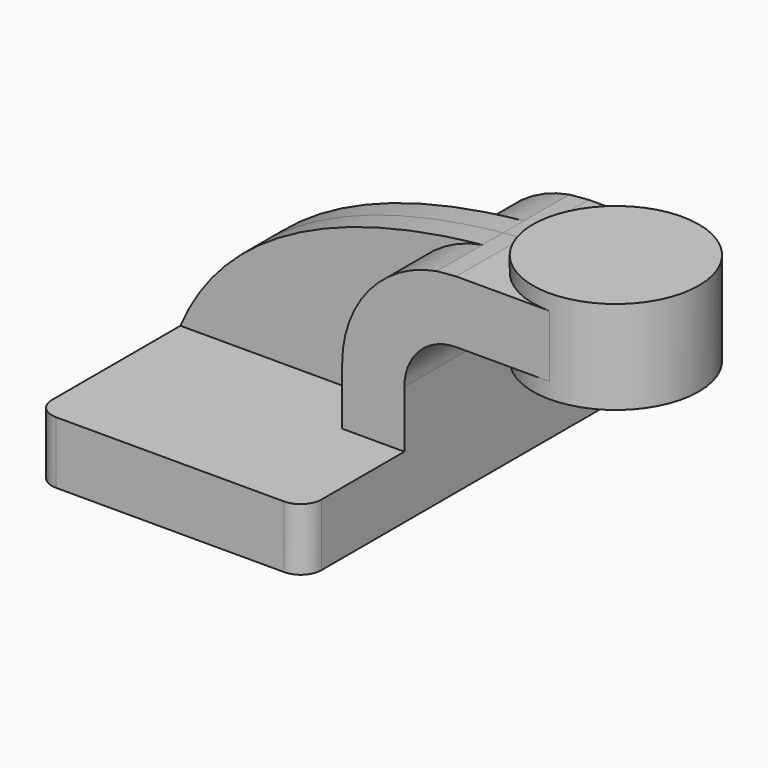
from build123d import *

# Parameters (mm, degrees)
F1_DEPTH = 63.5
F2_DEPTH = 25.4
F0_W     = 25.4
F0_H     = 19.05
F3_DEPTH = 25.4
F5_DEPTH = 7.9375
F6_R     = 6.35


with BuildPart() as f1:
    # F0 (on Front) → F1 (new body, symmetric)
    with BuildSketch(Plane.XZ):
        Polygon((22.225, 9.525), (-41.275, 9.525), (-41.275, -9.525), (41.275, -9.525), (41.275, 9.525), align=None)
    extrude(amount=F1_DEPTH, both=True)

    # F0 (on Front) → F2 (join, symmetric)
    with BuildSketch(Plane.XZ):
        with BuildLine():
            Line((22.225, 27.0002), (22.225, 9.525))
            Line((22.225, 9.525), (41.275, 9.525))
            Line((41.275, 9.525), (41.275, 27.0002))
            ThreePointArc((41.275, 27.0002), (45.9246798487, 38.2255201513), (57.15, 42.8752))
            Line((57.15, 42.8752), (60.325, 42.8752))
            Line((60.325, 42.8752), (60.325, 61.9252))
            Line((60.325, 61.9252), (57.15, 61.9252))
            add(Edge.make_bspline(
                [(51.1919194088, 61.4132338777), (53.1588989286, 61.6071240271), (55.1452560975, 61.7777078906), (57.15, 61.9252)],
                knots=[106.8067988555, 106.8067988555, 106.8067988555, 106.8067988555, 111.5045361635, 111.5045361635, 111.5045361635, 111.5045361635], degree=3))
            ThreePointArc((51.1919194088, 61.4132338777), (30.4307036989, 49.4909721116), (22.225, 27.0002))
        make_face()
    extrude(amount=F2_DEPTH, both=True)

    # F0 (on Front) → F3 (join, symmetric)
    with BuildSketch(Plane.XZ):
        with Locations((73.025, 52.4002)):
            Rectangle(F0_W, F0_H)
    extrude(amount=F3_DEPTH, both=True)

    # F0 (on Front) → F4 (revolve)
    with BuildSketch(Plane.XZ):
        Polygon((85.725, 66.675), (85.725, 61.9252), (85.725, 42.8752), (85.725, 38.1), (111.125, 38.1), (111.125, 66.675), align=None)
    revolve(axis=Axis((85.725, 0, 52.3875), (0, 0, 1)))

    # F0 (on Front) → F5 (join, symmetric)
    with BuildSketch(Plane.XZ):
        with BuildLine():
            add(Edge.make_bspline(
                [(-41.275, 9.525), (-28.2331469097, 40.5493377049), (6.4710735747, 57.0049869219), (51.1919194088, 61.4132338777)],
                knots=[0, 0, 0, 0, 106.8067988555, 106.8067988555, 106.8067988555, 106.8067988555], degree=3))
            Line((-41.275, 9.525), (22.225, 9.525))
            Line((22.225, 9.525), (22.225, 27.0002))
            ThreePointArc((22.225, 27.0002), (30.4307036989, 49.4909721116), (51.1919194088, 61.4132338777))
        make_face()
    extrude(amount=F5_DEPTH, both=True)

    # F6
    f6_edges = [f1.edges().sort_by_distance(p)[0] for p in [
        (-41.275, -63.5, 0),
        (41.275, -63.5, 0),
        (41.275, 63.5, 0),
        (-41.275, 63.5, 0),
    ]]
    fillet(f6_edges, radius=F6_R)


solid = f1.part
